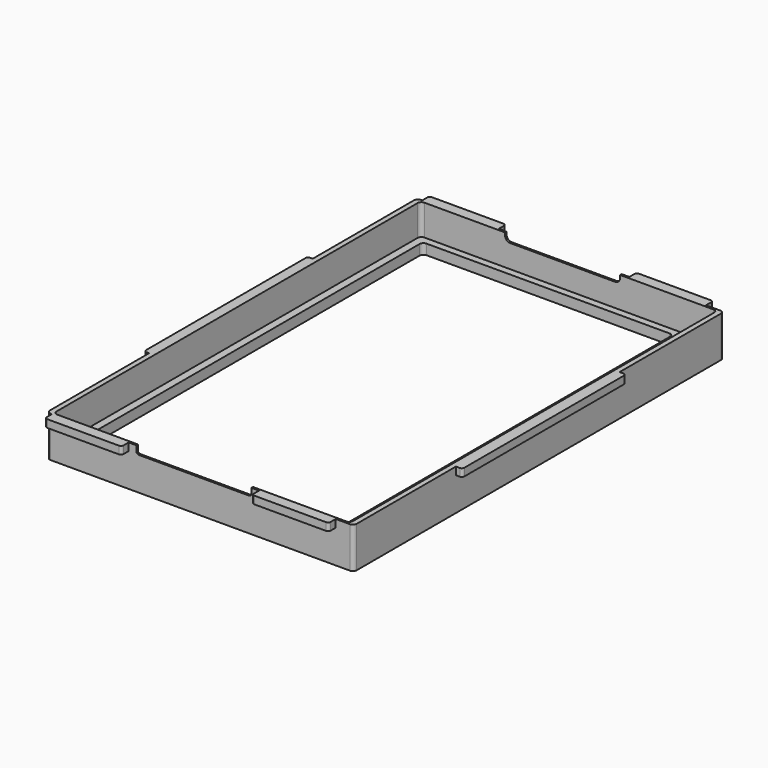
from build123d import *

# Parameters (mm, degrees)
BOX011_W      = 4
BOX011_H      = 80
BOX011_DEPTH  = 3
FILLET006_R   = 1
BOX010_W      = 30
BOX010_H      = 4
BOX010_DEPTH  = 3
FILLET007_R   = 1
BOX009_W      = 30
BOX009_H      = 4
BOX009_DEPTH  = 3
FILLET008_R   = 1
BOX008_W      = 30
BOX008_H      = 4
BOX008_DEPTH  = 3
FILLET009_R   = 1
BOX013_W      = 4
BOX013_H      = 80
BOX013_DEPTH  = 3
FILLET010_R   = 1
BOX012_W      = 30
BOX012_H      = 4
BOX012_DEPTH  = 3
FILLET005_R   = 1
BOX006_W      = 45
BOX006_H      = 10
BOX006_DEPTH  = 10
BOX007_W      = 45
BOX007_H      = 10
BOX007_DEPTH  = 10
FILLET004_1_R = 2
FILLET004_2_R = 1
BOX003_W      = 116
BOX003_H      = 179.5
BOX003_DEPTH  = 20
FILLET002_R   = 1.5
BOX002_W      = 120
BOX002_H      = 181
BOX002_DEPTH  = 12
FILLET003_R   = 1.5
BOX001_W      = 98
BOX001_H      = 173.5
BOX001_DEPTH  = 4
FILLET_R      = 1.5
BOX_W         = 120
BOX_H         = 181
BOX_DEPTH     = 4
FILLET001_R   = 1.5


with BuildPart() as fillet006:
    # Box011 → Box011 (new body)
    with BuildSketch(Plane(origin=(0, 50, 5), x_dir=(1, 0, 0), z_dir=(0, 0, 1))):
        with Locations((2, 40)):
            Rectangle(BOX011_W, BOX011_H)
    extrude(amount=BOX011_DEPTH)

    # Fillet006
    fillet006_edges = [fillet006.edges().sort_by_distance(p)[0] for p in [
        (0, 50, 6.5),
        (0, 130, 6.5),
    ]]
    fillet(fillet006_edges, radius=FILLET006_R)


with BuildPart() as fillet007:
    # Box010 → Box010 (new body)
    with BuildSketch(Plane(origin=(85, -3.5, 5), x_dir=(1, 0, 0), z_dir=(0, 0, 1))):
        with Locations((15, 2)):
            Rectangle(BOX010_W, BOX010_H)
    extrude(amount=BOX010_DEPTH)

    # Fillet007
    fillet007_edges = [fillet007.edges().sort_by_distance(p)[0] for p in [
        (85, -3.5, 6.5),
        (115, -3.5, 6.5),
    ]]
    fillet(fillet007_edges, radius=FILLET007_R)


with BuildPart() as fillet008:
    # Box009 → Box009 (new body)
    with BuildSketch(Plane(origin=(4, 180.5, 5), x_dir=(1, 0, 0), z_dir=(0, 0, 1))):
        with Locations((15, 2)):
            Rectangle(BOX009_W, BOX009_H)
    extrude(amount=BOX009_DEPTH)

    # Fillet008
    fillet008_edges = [fillet008.edges().sort_by_distance(p)[0] for p in [
        (4, 184.5, 6.5),
        (34, 184.5, 6.5),
    ]]
    fillet(fillet008_edges, radius=FILLET008_R)


with BuildPart() as fillet009:
    # Box008 → Box008 (new body)
    with BuildSketch(Plane(origin=(85, 180.5, 5), x_dir=(1, 0, 0), z_dir=(0, 0, 1))):
        with Locations((15, 2)):
            Rectangle(BOX008_W, BOX008_H)
    extrude(amount=BOX008_DEPTH)

    # Fillet009
    fillet009_edges = [fillet009.edges().sort_by_distance(p)[0] for p in [
        (85, 184.5, 6.5),
        (115, 184.5, 6.5),
    ]]
    fillet(fillet009_edges, radius=FILLET009_R)


with BuildPart() as fillet010:
    # Box013 → Box013 (new body)
    with BuildSketch(Plane(origin=(120.5, 50, 5), x_dir=(1, 0, 0), z_dir=(0, 0, 1))):
        with Locations((2, 40)):
            Rectangle(BOX013_W, BOX013_H)
    extrude(amount=BOX013_DEPTH)

    # Fillet010
    fillet010_edges = [fillet010.edges().sort_by_distance(p)[0] for p in [
        (124.5, 50, 6.5),
        (124.5, 130, 6.5),
    ]]
    fillet(fillet010_edges, radius=FILLET010_R)


with BuildPart() as fusion002:
    # Box012 → Box012 (new body)
    with BuildSketch(Plane(origin=(4, -3.5, 5), x_dir=(1, 0, 0), z_dir=(0, 0, 1))):
        with Locations((15, 2)):
            Rectangle(BOX012_W, BOX012_H)
    extrude(amount=BOX012_DEPTH)

    # Fillet005
    fillet005_edges = [fusion002.edges().sort_by_distance(p)[0] for p in [
        (4, -3.5, 6.5),
        (34, -3.5, 6.5),
    ]]
    fillet(fillet005_edges, radius=FILLET005_R)

    # Fusion002: union Fillet006, Fillet007, Fillet008, Fillet009, Fillet010
    add(fillet006.part)
    add(fillet007.part)
    add(fillet008.part)
    add(fillet009.part)
    add(fillet010.part)


with BuildPart() as fusion002_1:
    # Fusion002 placement: moved
    add(fusion002.part.moved(Location((0, 0, 8))))


with BuildPart() as cube006:
    # Box006 → Box006 (new body)
    with BuildSketch(Plane(origin=(15, -5, 0), x_dir=(1, 0, 0), z_dir=(0, 0, 1))):
        with Locations((22.5, 5)):
            Rectangle(BOX006_W, BOX006_H)
    extrude(amount=BOX006_DEPTH)


with BuildPart() as fillet004:
    # Box007 → Box007 (new body)
    with BuildSketch(Plane(origin=(15, 175, 0), x_dir=(1, 0, 0), z_dir=(0, 0, 1))):
        with Locations((22.5, 5)):
            Rectangle(BOX007_W, BOX007_H)
    extrude(amount=BOX007_DEPTH)

    # Fusion: union Cube006
    add(cube006.part)


with BuildPart() as fillet004_1:
    # Fusion placement: moved
    add(fillet004.part.moved(Location((22, 0, 13))))

    # Fillet004 1
    fillet004_1_edges = [fillet004_1.edges().sort_by_distance(p)[0] for p in [
        (37, 180, 13),
        (82, 180, 13),
    ]]
    fillet(fillet004_1_edges, radius=FILLET004_1_R)

    # Fillet004 2
    fillet004_2_edges = [fillet004_1.edges().sort_by_distance(p)[0] for p in [
        (37, 0, 13),
        (82, 0, 13),
    ]]
    fillet(fillet004_2_edges, radius=FILLET004_2_R)


with BuildPart() as fillet002:
    # Box003 → Box003 (new body)
    with BuildSketch(Plane(origin=(4, 0.75, 4), x_dir=(1, 0, 0), z_dir=(0, 0, 1))):
        with Locations((58, 89.75)):
            Rectangle(BOX003_W, BOX003_H)
    extrude(amount=BOX003_DEPTH)

    # Fillet002
    fillet002_edges = [fillet002.edges().sort_by_distance(p)[0] for p in [
        (4, 0.75, 14),
        (4, 180.25, 14),
        (120, 0.75, 14),
        (120, 180.25, 14),
    ]]
    fillet(fillet002_edges, radius=FILLET002_R)


with BuildPart() as cut002:
    # Box002 → Box002 (new body)
    with BuildSketch(Plane(origin=(2, 0, 4), x_dir=(1, 0, 0), z_dir=(0, 0, 1))):
        with Locations((60, 90.5)):
            Rectangle(BOX002_W, BOX002_H)
    extrude(amount=BOX002_DEPTH)

    # Fillet003
    fillet003_edges = [cut002.edges().sort_by_distance(p)[0] for p in [
        (2, 0, 10),
        (2, 181, 10),
        (122, 0, 10),
        (122, 181, 10),
    ]]
    fillet(fillet003_edges, radius=FILLET003_R)

    # Cut001: cut Fillet002
    add(fillet002.part, mode=Mode.SUBTRACT)

    # Cut002: cut Fillet004
    add(fillet004_1.part, mode=Mode.SUBTRACT)


with BuildPart() as fillet_body:
    # Box001 → Box001 (new body)
    with BuildSketch(Plane(origin=(7, 4, 0), x_dir=(1, 0, 0), z_dir=(0, 0, 1))):
        with Locations((49, 86.75)):
            Rectangle(BOX001_W, BOX001_H)
    extrude(amount=BOX001_DEPTH)

    # Fillet
    fillet_edges = [fillet_body.edges().sort_by_distance(p)[0] for p in [
        (7, 4, 2),
        (7, 177.5, 2),
        (105, 4, 2),
        (105, 177.5, 2),
    ]]
    fillet(fillet_edges, radius=FILLET_R)


with BuildPart() as fusion003:
    # Box → Box (new body)
    with BuildSketch(Plane(origin=(2, 0, 0), x_dir=(1, 0, 0), z_dir=(0, 0, 1))):
        with Locations((60, 90.5)):
            Rectangle(BOX_W, BOX_H)
    extrude(amount=BOX_DEPTH)

    # Fillet001
    fillet001_edges = [fusion003.edges().sort_by_distance(p)[0] for p in [
        (2, 0, 2),
        (2, 181, 2),
        (122, 0, 2),
        (122, 181, 2),
    ]]
    fillet(fillet001_edges, radius=FILLET001_R)

    # Cut: cut Fillet body
    add(fillet_body.part, mode=Mode.SUBTRACT)

    # Fusion001: union Cut002
    add(cut002.part)

    # Fusion003: union Fusion002
    add(fusion002_1.part)


solid = fusion003.part
